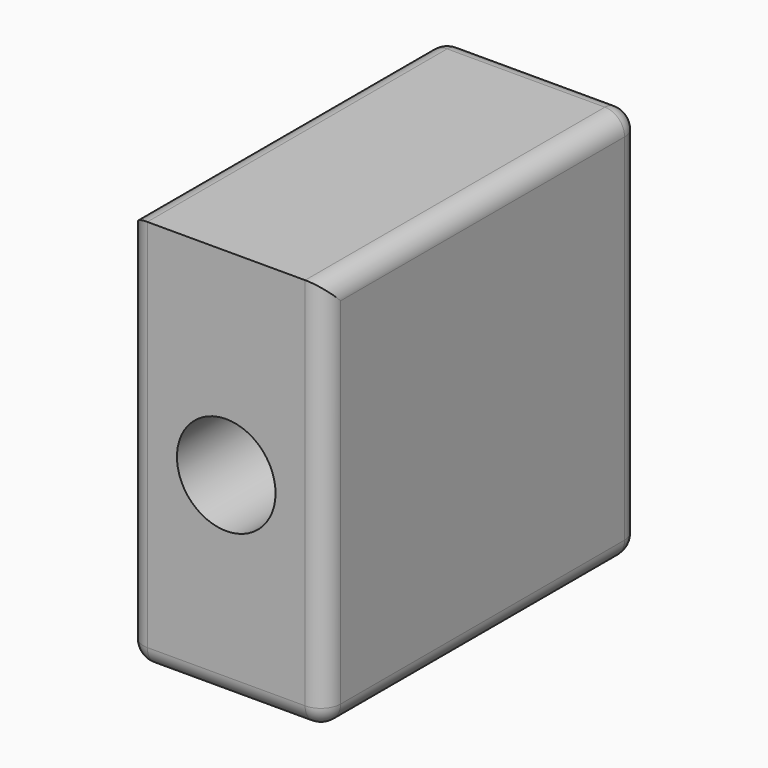
from build123d import *

# Parameters (mm, degrees)
F0_W     = 50.8
F0_H     = 101.6
F1_DEPTH = 101.6
F2_R     = 12.7
F3_DEPTH = 101.6
F4_R     = 5.08


with BuildPart() as f1:
    # F0 (on Front) → F1 (new body)
    with BuildSketch(Plane.XZ):
        Rectangle(F0_W, F0_H)
    extrude(amount=-F1_DEPTH)

    # F2 (on Front) → F3 (cut, through all)
    with BuildSketch(Plane.XZ):
        Circle(F2_R)
    extrude(amount=-F3_DEPTH, mode=Mode.SUBTRACT)

    # F4
    f4_edges = [f1.edges().sort_by_distance(p)[0] for p in [
        (25.4, 50.8, 50.8),
        (-25.4, 50.8, 50.8),
        (25.4, 50.8, -50.8),
        (-25.4, 50.8, -50.8),
        (0, 101.6, -50.8),
        (-25.4, 101.6, 0),
        (0, 101.6, 50.8),
        (25.4, 101.6, 0),
        (25.4, 0, 0),
        (-25.4, 0, 0),
        (0, 0, -50.8),
    ]]
    fillet(f4_edges, radius=F4_R)


solid = f1.part
